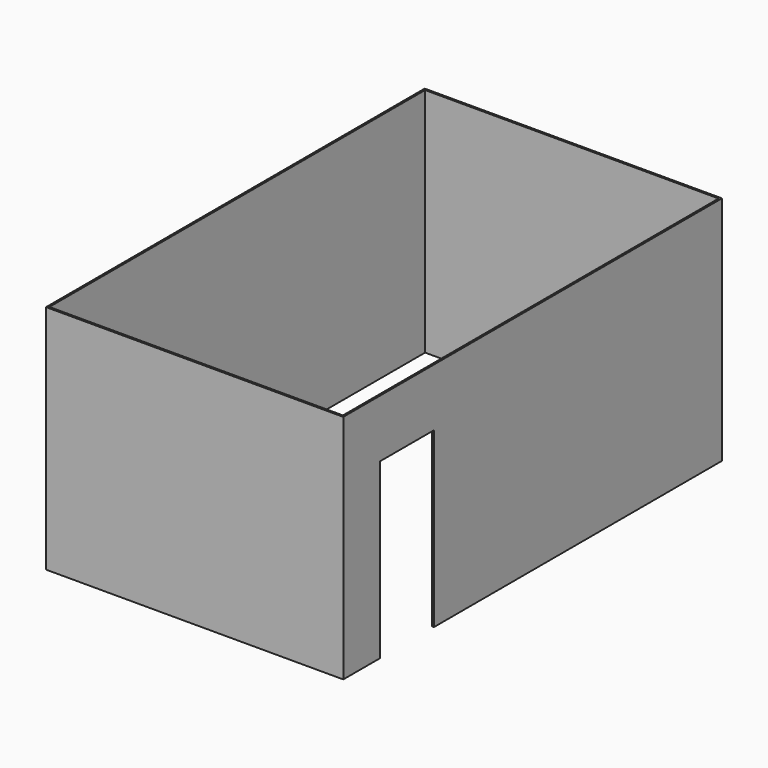
from build123d import *

# Parameters (mm, degrees)
F0_W     = 3086
F0_H     = 4914.8
F0_W_2   = 3048
F0_H_2   = 4876.8
F1_DEPTH = 2400
F2_W     = 700
F2_H     = 1800
F3_DEPTH = 19


with BuildPart() as f1:
    # F0 (on Top) → F1 (new body)
    with BuildSketch(Plane.XY):
        Rectangle(F0_W, F0_H)
        Rectangle(F0_W_2, F0_H_2, mode=Mode.SUBTRACT)
    extrude(amount=F1_DEPTH)

    # F2 (on face) → F3 (cut, through all)
    with BuildSketch(Plane.YZ.offset(1543)):
        with Locations((-1630.123281, 900)):
            Rectangle(F2_W, F2_H)
    extrude(amount=-F3_DEPTH, mode=Mode.SUBTRACT)


solid = f1.part
